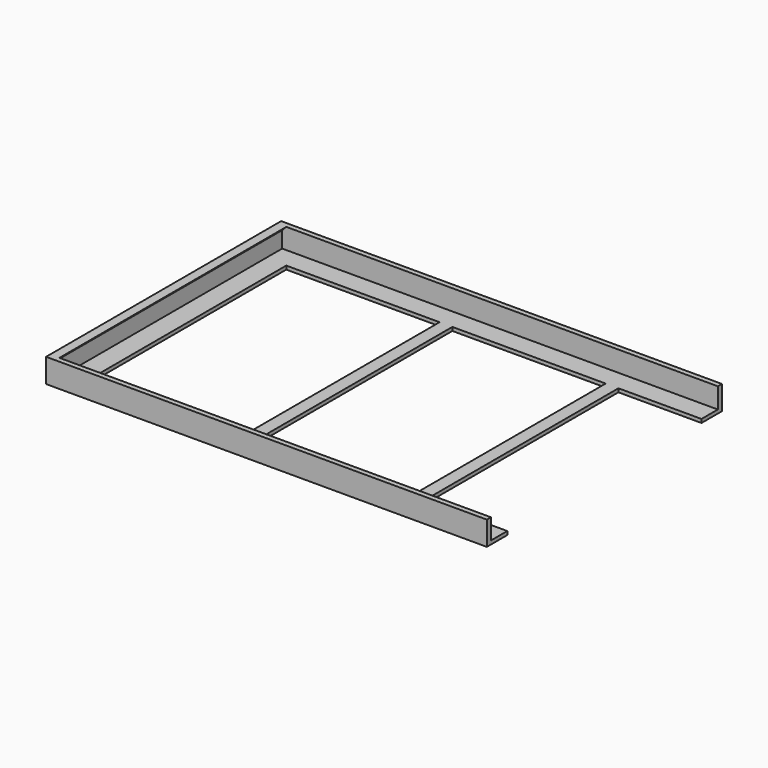
from build123d import *

# Parameters (mm, degrees)
F0_W     = 5
F0_H     = 95
F1_DEPTH = 1.4
F3_DEPTH = 8
F5_DEPTH = 111


with BuildPart() as f1:
    # F0 (on Top) → F1 (new body)
    with BuildSketch(Plane.XY):
        Polygon((86.25, 47.5), (86.25, 57.5), (-86.25, 57.5), (-86.25, -57.5), (86.25, -57.5), (86.25, -47.5), (53.75, -47.5), (48.75, -47.5), (-11.25, -47.5), (-16.25, -47.5), (-76.25, -47.5), (-76.25, 47.5), (-16.25, 47.5), (-11.25, 47.5), (48.75, 47.5), (53.75, 47.5), align=None)
        with Locations((-13.75, 0)):
            Rectangle(F0_W, F0_H)
        with Locations((51.25, 0)):
            Rectangle(F0_W, F0_H)
    extrude(amount=F1_DEPTH)

    # F2 (on face) → F3 (join)
    with BuildSketch(Plane.XY.offset(1.4)):
        Polygon((86.25, -57.5), (86.25, -55.5), (-84.25, -55.5), (-84.25, 55.5), (86.25, 55.5), (86.25, 57.5), (-86.25, 57.5), (-86.25, -57.5), align=None)
    extrude(amount=F3_DEPTH)

    # F4 (on face) → F5 (join, through all)
    with BuildSketch(Plane.XZ.offset(-55.5)):
        Polygon((-84.25, 9.4), (-84.25, 7.737799), (-82.629912, 9.4), align=None)
    extrude(amount=F5_DEPTH)


solid = f1.part
